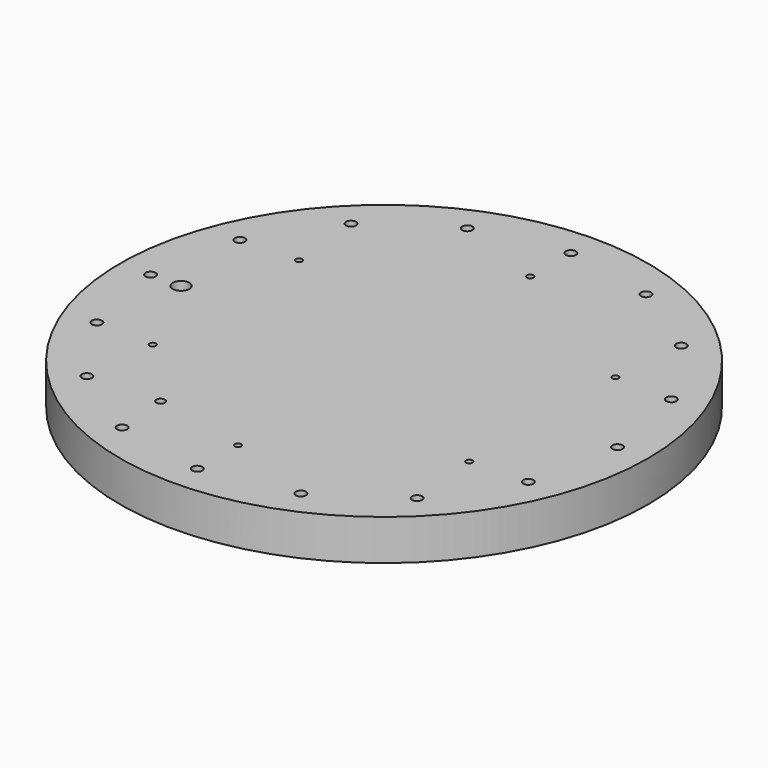
from build123d import *

# Parameters (mm, degrees)
F0_R           = 165.1
F1_DEPTH       = 25.4
F3_D           = 4.0386
F3_DEPTH       = 9.652
F3_TIP         = 1.213317848
F5_D           = 6.35
F5_CBORE_D     = 10.16
F5_CBORE_DEPTH = 12.7
F6_D           = 10.5
F7_D           = 2.2606
F7_DEPTH       = 10.16
F7_TIP         = 0.6791527577
F8_D           = 5.4102
F9_D           = 10.71626
F9_DEPTH       = 12.7
F9_TIP         = 3.2194893086


with BuildPart() as f1:
    # F0 (on Top) → F1 (new body)
    with BuildSketch(Plane.XY):
        Circle(F0_R)
    extrude(amount=-F1_DEPTH)

    # F3
    with Locations(Plane.XY):
        with Locations((-98.9867036526, 57.15), (-98.9867036526, -57.15), (0, -114.3), (98.9867036526, -57.15), (98.9867036526, 57.15), (0, 114.3)):
            Hole(F3_D / 2, depth=F3_DEPTH)
            with Locations((0, 0, -(F3_DEPTH + F3_TIP / 2))):  # 118° drill point
                Cone(0, F3_D / 2, F3_TIP, mode=Mode.SUBTRACT)

    # F5 (through all)
    with Locations(Plane(origin=(0, 0, -25.4), x_dir=(1, 0, 0), z_dir=(0, 0, -1))):
        with Locations((-134.9326057233, 55.8909152969), (-103.2729453923, 103.2729453923), (-55.8909152969, 134.9326057233), (0, 146.05), (55.8909152969, 134.9326057233), (103.2729453923, 103.2729453923), (134.9326057233, 55.8909152969), (146.05, 0), (134.9326057233, -55.8909152969), (103.2729453923, -103.2729453923), (55.8909152969, -134.9326057233), (0, -146.05), (-55.8909152969, -134.9326057233), (-103.2729453923, -103.2729453923), (-134.9326057233, -55.8909152969), (-146.05, 0)):
            CounterBoreHole(F5_D / 2, F5_CBORE_D / 2, F5_CBORE_DEPTH)

    # F6 (through all)
    with Locations(Plane(origin=(0, 0, -25.4), x_dir=(1, 0, 0), z_dir=(0, 0, -1))):
        with Locations((-127, 0)):
            Hole(F6_D / 2)

    # F7
    with Locations(Plane(origin=(0, 0, -25.4), x_dir=(1, 0, 0), z_dir=(0, 0, -1))):
        with Locations((140.462, -27.94)):
            Hole(F7_D / 2, depth=F7_DEPTH)
            with Locations((0, 0, -(F7_DEPTH + F7_TIP / 2))):  # 118° drill point
                Cone(0, F7_D / 2, F7_TIP, mode=Mode.SUBTRACT)

    # F8 (through all)
    with Locations(Plane(origin=(0, 0, -25.4), x_dir=(1, 0, 0), z_dir=(0, 0, -1))):
        with Locations((-58.58002, 101.4603)):
            Hole(F8_D / 2)

    # F9
    with Locations(Plane(origin=(0, 0, -25.4), x_dir=(1, 0, 0), z_dir=(0, 0, -1))):
        with Locations((63.5, -109.9852262806), (63.5, 109.9852262806)):
            Hole(F9_D / 2, depth=F9_DEPTH)
            with Locations((0, 0, -(F9_DEPTH + F9_TIP / 2))):  # 118° drill point
                Cone(0, F9_D / 2, F9_TIP, mode=Mode.SUBTRACT)


solid = f1.part
